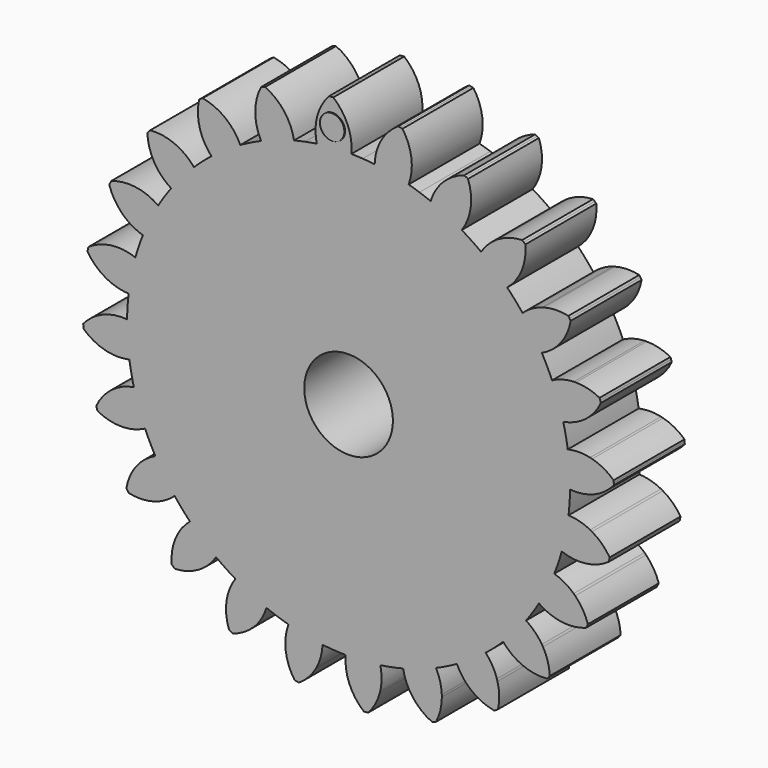
from build123d import *

# Parameters (mm, degrees)
F1_DEPTH = 12.7
F2_COUNT = 24
F2_ANGLE = 345
F4_D     = 25.4
F5_R     = 3.5116697328
F6_DEPTH = 0.254


with BuildPart() as f1:
    # F0 (on Front) → F1 (new body, symmetric)
    with BuildSketch(Plane.XZ):
        with BuildLine():
            Line((-31.75, 54.9926131403), (0, 0))
            Line((0, 0), (-16.435009364, 61.3362899694))
            ThreePointArc((-16.435009364, 61.3362899694), (-24.3003979552, 58.6663503145), (-31.75, 54.9926131403))
        make_face()
        with BuildLine():
            Line((-44.9012806053, 44.9012806053), (0, 0))
            Line((0, 0), (-31.75, 54.9926131403))
            ThreePointArc((-31.75, 54.9926131403), (-38.6563507421, 50.3779371085), (-44.9012806053, 44.9012806053))
        make_face()
        with BuildLine():
            Line((0, 0), (0, 55.245))
            ThreePointArc((0, 55.245), (-1.8403425433, 55.3614126181), (-3.6513473128, 55.7087946836))
            Line((-3.6513473128, 55.7087946836), (0, 0))
        make_face()
        with BuildLine():
            Line((-63.4999718868, 0.0597526459), (0, 0))
            Line((0, 0), (-61.3362899694, 16.435009364))
            ThreePointArc((-61.3362899694, 16.435009364), (-62.952842086, 8.3180330187), (-63.4999718868, 0.0597526459))
        make_face()
        with BuildLine():
            Line((-16.435009364, 61.3362899694), (0, 0))
            Line((0, 0), (-3.6513473128, 55.7087946836))
            ThreePointArc((-3.6513473128, 55.7087946836), (-8.7052871089, 58.122937224), (-12.4789617732, 62.26175))
            ThreePointArc((-12.4789617732, 62.26175), (-14.4643890572, 61.8306675461), (-16.435009364, 61.3362899694))
        make_face()
        with BuildLine():
            Line((-61.3362899694, 16.435009364), (0, 0))
            Line((0, 0), (-54.9926131403, 31.75))
            ThreePointArc((-54.9926131403, 31.75), (-58.6663503145, 24.3003979552), (-61.3362899694, 16.435009364))
        make_face()
        with BuildLine():
            Line((-54.9926131403, 31.75), (0, 0))
            Line((0, 0), (-44.9012806053, 44.9012806053))
            ThreePointArc((-44.9012806053, 44.9012806053), (-50.3779371085, 38.6563507421), (-54.9926131403, 31.75))
        make_face()
        with BuildLine():
            Line((54.9926131403, 31.75), (0, 0))
            Line((0, 0), (61.3362899694, 16.435009364))
            ThreePointArc((61.3362899694, 16.435009364), (58.6663503145, 24.3003979552), (54.9926131403, 31.75))
        make_face()
        with BuildLine():
            Line((31.75, 54.9926131403), (0, 0))
            Line((0, 0), (44.9012806053, 44.9012806053))
            ThreePointArc((44.9012806053, 44.9012806053), (38.6563507421, 50.3779371085), (31.75, 54.9926131403))
        make_face()
        with BuildLine():
            Line((61.3362899694, 16.435009364), (0, 0))
            Line((0, 0), (63.5, 0))
            ThreePointArc((63.5, 0), (62.9567486972, 8.288413206), (61.3362899694, 16.435009364))
        make_face()
        with BuildLine():
            ThreePointArc((12.4789617732, 62.26175), (7.158199276, 57.1194773035), (0, 55.245))
            Line((0, 55.245), (0, 0))
            Line((0, 0), (16.435009364, 61.3362899694))
            ThreePointArc((16.435009364, 61.3362899694), (14.4643890572, 61.8306675461), (12.4789617732, 62.26175))
        make_face()
        with BuildLine():
            Line((16.435009364, 61.3362899694), (0, 0))
            Line((0, 0), (31.75, 54.9926131403))
            ThreePointArc((31.75, 54.9926131403), (24.3003979552, 58.6663503145), (16.435009364, 61.3362899694))
        make_face()
        with BuildLine():
            Line((44.9012806053, 44.9012806053), (0, 0))
            Line((0, 0), (54.9926131403, 31.75))
            ThreePointArc((54.9926131403, 31.75), (50.3779371085, 38.6563507421), (44.9012806053, 44.9012806053))
        make_face()
        with BuildLine():
            Line((-54.9926131403, -31.75), (0, 0))
            Line((0, 0), (-61.3362899694, -16.435009364))
            ThreePointArc((-61.3362899694, -16.435009364), (-58.6663503145, -24.3003979552), (-54.9926131403, -31.75))
        make_face()
        with BuildLine():
            Line((-31.75, -54.9926131403), (0, 0))
            Line((0, 0), (-44.9012806053, -44.9012806053))
            ThreePointArc((-44.9012806053, -44.9012806053), (-38.6563507421, -50.3779371085), (-31.75, -54.9926131403))
        make_face()
        with BuildLine():
            Line((-44.9012806053, -44.9012806053), (0, 0))
            Line((0, 0), (-54.9926131403, -31.75))
            ThreePointArc((-54.9926131403, -31.75), (-50.3779371085, -38.6563507421), (-44.9012806053, -44.9012806053))
        make_face()
        with BuildLine():
            Line((0, -63.5), (0, 0))
            Line((0, 0), (-16.435009364, -61.3362899694))
            ThreePointArc((-16.435009364, -61.3362899694), (-8.288413206, -62.9567486972), (0, -63.5))
        make_face()
        with BuildLine():
            Line((-16.435009364, -61.3362899694), (0, 0))
            Line((0, 0), (-31.75, -54.9926131403))
            ThreePointArc((-31.75, -54.9926131403), (-24.3003979552, -58.6663503145), (-16.435009364, -61.3362899694))
        make_face()
        with BuildLine():
            Line((-61.3362899694, -16.435009364), (0, 0))
            Line((0, 0), (-63.4999718868, 0.0597526459))
            ThreePointArc((-63.4999718868, 0.0597526459), (-62.9606413722, -8.2587915585), (-61.3362899694, -16.435009364))
        make_face()
        with BuildLine():
            Line((0, 55.245), (0, 63.5))
            ThreePointArc((0, 63.5), (-2.0776617592, 63.4660013047), (-4.1530987061, 63.3640416257))
            Line((-4.1530987061, 63.3640416257), (-3.6513473128, 55.7087946836))
            ThreePointArc((-3.6513473128, 55.7087946836), (-1.8403425433, 55.3614126181), (0, 55.245))
        make_face()
        with BuildLine():
            Line((-3.6513473128, 55.7087946836), (-4.1530987061, 63.3640416257))
            ThreePointArc((-4.1530987061, 63.3640416257), (-6.6306628061, 63.1528646282), (-9.0980596657, 62.8448511043))
            ThreePointArc((-9.0980596657, 62.8448511043), (-10.7924494564, 62.576137902), (-12.4789617732, 62.26175))
            ThreePointArc((-12.4789617732, 62.26175), (-8.7052871089, 58.122937224), (-3.6513473128, 55.7087946836))
        make_face()
        with BuildLine():
            ThreePointArc((0.8173253887, 63.4947397759), (0.4086711578, 63.4986849304), (0, 63.5))
            Line((0, 63.5), (0, 55.245))
            ThreePointArc((0, 55.245), (7.158199276, 57.1194773035), (12.4789617732, 62.26175))
            ThreePointArc((12.4789617732, 62.26175), (6.6766667597, 63.1480175538), (0.8173253887, 63.4947397759))
        make_face()
        with BuildLine():
            Line((0, 63.5), (0, 69.85))
            Line((0, 69.85), (-4.4715384401, 68.2224931064))
            Line((-4.4715384401, 68.2224931064), (-4.1530987061, 63.3640416257))
            ThreePointArc((-4.1530987061, 63.3640416257), (-2.0776617592, 63.4660013047), (0, 63.5))
        make_face()
        with BuildLine():
            Line((-4.1530987061, 63.3640416257), (-4.4715384401, 68.2224931064))
            Line((-4.4715384401, 68.2224931064), (-9.4600431371, 66.4068258832))
            ThreePointArc((-9.4600431371, 66.4068258832), (-9.3886138378, 64.6147042793), (-9.0980596657, 62.8448511043))
            ThreePointArc((-9.0980596657, 62.8448511043), (-6.6306628061, 63.1528646282), (-4.1530987061, 63.3640416257))
        make_face()
        with BuildLine():
            Line((-4.4715384401, 68.2224931064), (-4.5684085767, 69.7004457882))
            ThreePointArc((-4.5684085767, 69.7004457882), (-6.846497252, 69.5136531581), (-9.1172545266, 69.252423567))
            ThreePointArc((-9.1172545266, 69.252423567), (-9.3586222424, 67.8380539167), (-9.4600431371, 66.4068258832))
            Line((-9.4600431371, 66.4068258832), (-4.4715384401, 68.2224931064))
        make_face()
        with BuildLine():
            ThreePointArc((-9.1172545266, 69.252423567), (-6.846497252, 69.5136531581), (-4.5684085767, 69.7004457882))
            Line((-4.5684085767, 69.7004457882), (-4.5782108776, 69.85))
            Line((-4.5782108776, 69.85), (-8.9715081429, 69.85))
            ThreePointArc((-8.9715081429, 69.85), (-9.0475275684, 69.5519791367), (-9.1172545266, 69.252423567))
        make_face()
        with BuildLine():
            Line((-8.9715081429, 69.85), (-4.5782108776, 69.85))
            Line((-4.5782108776, 69.85), (-4.9837184473, 76.0368499508))
            ThreePointArc((-4.9837184473, 76.0368499508), (-5.2884845579, 76.0162609649), (-5.5931656854, 75.9944504396))
            ThreePointArc((-5.5931656854, 75.9944504396), (-7.6565566905, 73.1279787809), (-8.9715081429, 69.85))
        make_face()
        with BuildLine():
            Line((-4.5782108776, 69.85), (0, 69.85))
            ThreePointArc((0, 69.85), (-1.7745886081, 73.2519712977), (-4.3739508681, 76.0743620006))
            ThreePointArc((-4.3739508681, 76.0743620006), (-4.6788722512, 76.0562170664), (-4.9837184473, 76.0368499508))
            Line((-4.9837184473, 76.0368499508), (-4.5782108776, 69.85))
        make_face()
        with BuildLine():
            ThreePointArc((0.8173253887, 63.4947397759), (0.7614871945, 66.7177452796), (0, 69.85))
            Line((0, 69.85), (0, 63.5))
            ThreePointArc((0, 63.5), (0.4086711578, 63.4986849304), (0.8173253887, 63.4947397759))
        make_face()
        with BuildLine():
            ThreePointArc((-4.5684085767, 69.7004457882), (-2.2854279351, 69.8126014352), (0, 69.85))
            Line((0, 69.85), (-4.5782108776, 69.85))
            Line((-4.5782108776, 69.85), (-4.5684085767, 69.7004457882))
        make_face()
        with BuildLine():
            Line((-4.4715384401, 68.2224931064), (0, 69.85))
            ThreePointArc((0, 69.85), (-2.2854279351, 69.8126014352), (-4.5684085767, 69.7004457882))
            Line((-4.5684085767, 69.7004457882), (-4.4715384401, 68.2224931064))
        make_face()
        with BuildLine():
            Line((54.9926131403, -31.75), (0, 0))
            Line((0, 0), (44.9012806053, -44.9012806053))
            ThreePointArc((44.9012806053, -44.9012806053), (50.3779371085, -38.6563507421), (54.9926131403, -31.75))
        make_face()
        with BuildLine():
            Line((61.3362899694, -16.435009364), (0, 0))
            Line((0, 0), (54.9926131403, -31.75))
            ThreePointArc((54.9926131403, -31.75), (58.6663503145, -24.3003979552), (61.3362899694, -16.435009364))
        make_face()
        with BuildLine():
            Line((63.5, 0), (0, 0))
            Line((0, 0), (61.3362899694, -16.435009364))
            ThreePointArc((61.3362899694, -16.435009364), (62.9567486972, -8.288413206), (63.5, 0))
        make_face()
        with BuildLine():
            Line((44.9012806053, -44.9012806053), (0, 0))
            Line((0, 0), (31.75, -54.9926131403))
            ThreePointArc((31.75, -54.9926131403), (38.6563507421, -50.3779371085), (44.9012806053, -44.9012806053))
        make_face()
        with BuildLine():
            Line((16.435009364, -61.3362899694), (0, 0))
            Line((0, 0), (0, -63.5))
            ThreePointArc((0, -63.5), (8.288413206, -62.9567486972), (16.435009364, -61.3362899694))
        make_face()
        with BuildLine():
            Line((31.75, -54.9926131403), (0, 0))
            Line((0, 0), (16.435009364, -61.3362899694))
            ThreePointArc((16.435009364, -61.3362899694), (24.3003979552, -58.6663503145), (31.75, -54.9926131403))
        make_face()
    extrude(amount=F1_DEPTH, both=True)

    # F2: F1 ×24 about axis
    f2_axis = Axis((0, 0, 0), (0, -1, 0))


with BuildPart() as f1_1:
    add(f1.part)
    for i in range(1, F2_COUNT):
        add(f1.part.rotate(f2_axis, i * F2_ANGLE / (F2_COUNT - 1)))

    # F4 (through all)
    with Locations(Plane.XZ.offset(12.7)):
        with Locations((0, 0)):
            Hole(F4_D / 2)

    # F5 (on face) → F6 (join)
    with BuildSketch(Plane.XZ.offset(12.7)):
        with Locations((-4.5133861713, 68.6239600182)):
            Circle(F5_R)
    extrude(amount=F6_DEPTH)


solid = f1_1.part
